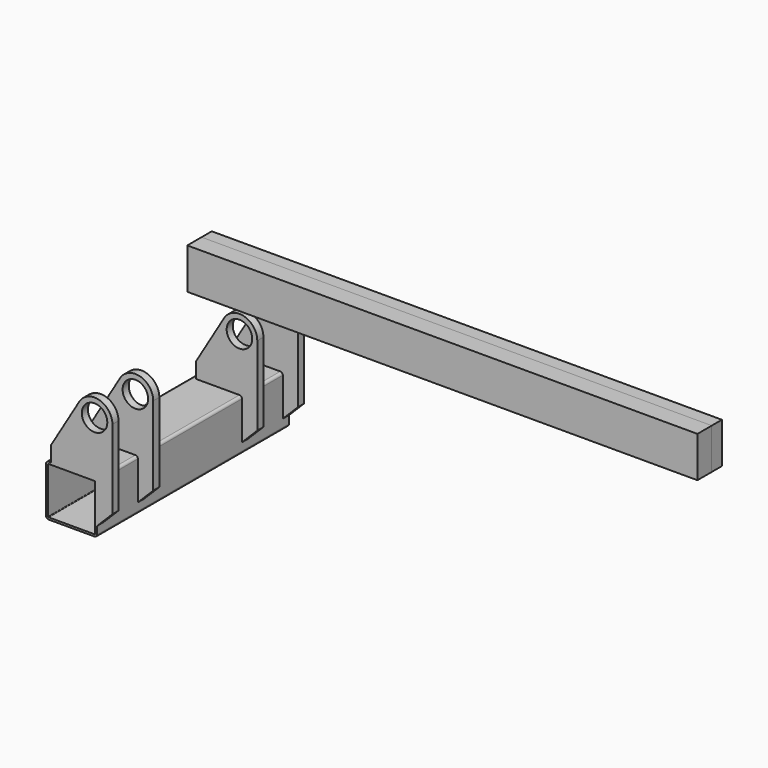
from build123d import *

# Parameters (mm, degrees)
F1_DEPTH = 235
F2_T     = -4
F0_R     = 25
F3_DEPTH = 15
F0_W     = 1000
F0_H     = 80
F6_DEPTH = 60
F7_DEPTH = 25


with BuildPart() as f1:
    # F0 (on Front) → F1 (new body)
    with BuildSketch(Plane.XZ):
        with BuildLine():
            ThreePointArc((50, 45), (48.5355339059, 48.5355339059), (45, 50))
            Line((45, 50), (-40.3777472675, 50))
            Line((-40.3777472675, 50), (-45, 50))
            ThreePointArc((-45, 50), (-48.5355339059, 48.5355339059), (-50, 45))
            Line((-50, 45), (-50, -45))
            ThreePointArc((-50, -45), (-48.5355339059, -48.5355339059), (-45, -50))
            Line((-45, -50), (45, -50))
            ThreePointArc((45, -50), (48.5355339059, -48.5355339059), (50, -45))
            Line((50, -45), (50, -30))
            Line((50, -30), (50, 45))
        make_face()
    extrude(amount=-F1_DEPTH)

    # F2
    f2_openings = [f1.faces().sort_by_distance(p)[0] for p in [
        (0, 0, 0),
        (0, 235, 0),
    ]]
    offset(amount=F2_T, openings=f2_openings)



with BuildPart() as f3:
    # F0 (on Front) → F3 (new body)
    with BuildSketch(Plane.XZ):
        with BuildLine():
            Line((-40.3777472675, 50), (45, 50))
            ThreePointArc((45, 50), (48.5355339059, 48.5355339059), (50, 45))
            Line((50, 45), (50, -30))
            Line((50, -30), (80, 0))
            Line((80, 0), (80, 155))
            ThreePointArc((80, 155), (54.2839853809, 188.7462237213), (14.9252791173, 172.9028255822))
            Line((14.9252791173, 172.9028255822), (-40.3777472675, 80))
            Line((-40.3777472675, 80), (-40.3777472675, 50))
        make_face()
        with Locations((45, 155)):
            Circle(F0_R, mode=Mode.SUBTRACT)
    extrude(amount=-F3_DEPTH)


with BuildPart() as f4_1:
    # F4: copy of F3
    add(f3.part.moved(Location((0, 100, 0))))


with BuildPart() as f1_1:
    add(f1.part)

    add(f3.part)  # F5 merges F3

    add(f4_1.part)  # F5 merges F4_1
    # F5: F1, F3, F4_1 across face
    add(f1.part.mirror(Plane(origin=(0, 235, 0), x_dir=(1, 0, 0), z_dir=(0, 1, 0))))
    add(f3.part.mirror(Plane(origin=(0, 235, 0), x_dir=(1, 0, 0), z_dir=(0, 1, 0))))
    add(f4_1.part.mirror(Plane(origin=(0, 235, 0), x_dir=(1, 0, 0), z_dir=(0, 1, 0))))


with BuildPart() as f6:
    # F0 (on Front) → F6 (new body)
    with BuildSketch(Plane.XZ):
        with Locations((774.7542262077, 511.5091586113)):
            Rectangle(F0_W, F0_H)
    extrude(amount=F6_DEPTH)


with BuildPart() as f7:
    # F0 (on Front) → F7 (new body)
    with BuildSketch(Plane.XZ):
        with Locations((774.7542262077, 511.5091586113)):
            Rectangle(F0_W, F0_H)
    extrude(amount=F7_DEPTH)


solid = Compound([f1_1.part, f6.part, f7.part])
